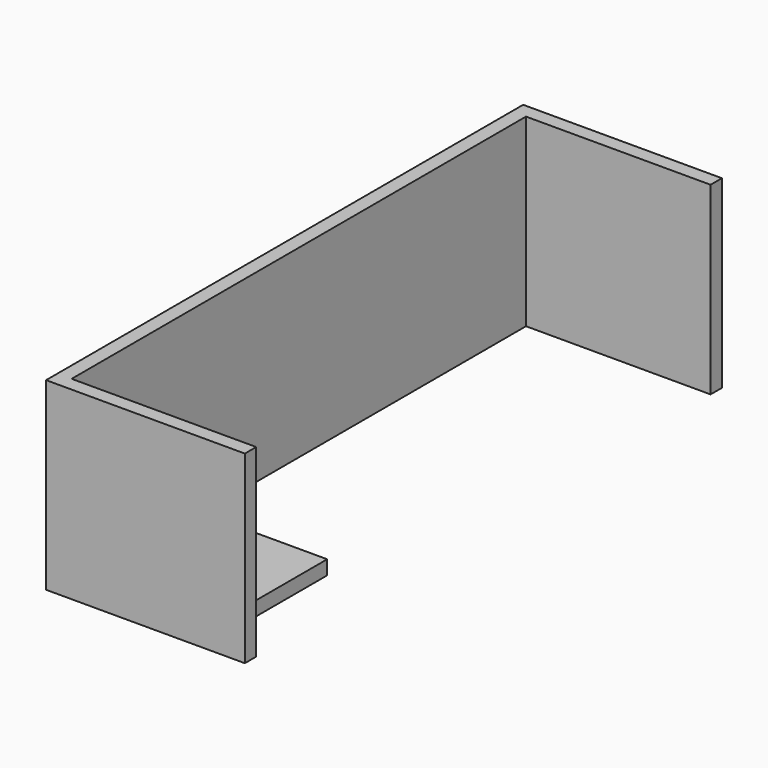
from build123d import *

# Parameters (mm, degrees)
SKETCH008_W     = 14
SKETCH008_H     = 42
PAD002_DEPTH    = 13
SKETCH010_W     = 13
SKETCH010_H     = 40
POCKET006_DEPTH = 13.001
SKETCH011_W     = 10
SKETCH011_H     = 1
PAD004_DEPTH    = 10
SKETCH012_R     = 0.75
PAD005_DEPTH    = 3


with BuildPart() as sensor_case:
    # Sketch008 → Pad002 (new body)
    with BuildSketch(Plane.XY):
        with Locations((7, 21)):
            Rectangle(SKETCH008_W, SKETCH008_H)
    extrude(amount=PAD002_DEPTH)

    # Sketch010 (on Face6 of Pad002) → Pocket006 (cut, through all)
    with BuildSketch(Plane.XY.offset(13)):
        with Locations((6.5, 21)):
            Rectangle(SKETCH010_W, SKETCH010_H)
    extrude(amount=-POCKET006_DEPTH, mode=Mode.SUBTRACT)

    # Sketch011 → Pad004 (join)
    with BuildSketch(Plane(origin=(0, 1, 0), x_dir=(-1, 0, 0), z_dir=(0, 1, 0))):
        with Locations((-8, 0.5)):
            Rectangle(SKETCH011_W, SKETCH011_H)
    extrude(amount=PAD004_DEPTH)

    # Sketch012 (on Face13 of Pad004) → Pad005 (join)
    with BuildSketch(Plane.XY.offset(1)):
        with Locations((9.5, 8)):
            Circle(SKETCH012_R)
    extrude(amount=PAD005_DEPTH)


with BuildPart() as sensor_case_1:
    # Body001 placement: moved
    add(sensor_case.part.moved(Location((0, 0, 14))))


with BuildPart() as mirrored_sensor_case:
    # Part__Mirroring001: instance of Sensor Case
    add(sensor_case_1.part.mirror(Plane(origin=(0, 0, 0), x_dir=(0, -1, 0), z_dir=(1, 0, 0))))


solid = mirrored_sensor_case.part
